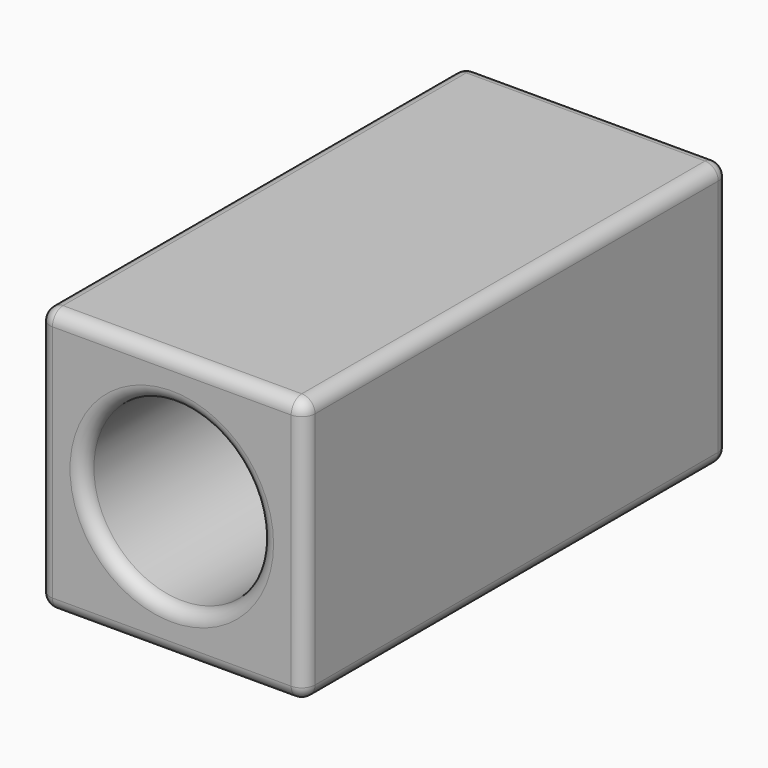
from build123d import *

# Parameters (mm, degrees)
F0_W     = 100
F0_H     = 100
F1_DEPTH = 200
F2_R     = 33.3715216042
F3_DEPTH = 273
F4_R     = 5


with BuildPart() as f1:
    # F0 (on Front) → F1 (new body)
    with BuildSketch(Plane.XZ):
        Rectangle(F0_W, F0_H)
    extrude(amount=F1_DEPTH)

    # F2 (on face) → F3 (cut)
    with BuildSketch(Plane.XZ.offset(200)):
        Circle(F2_R)
    extrude(amount=-F3_DEPTH, mode=Mode.SUBTRACT)

    # F4
    f4_edges = [f1.edges().sort_by_distance(p)[0] for p in [
        (50, -100, 50),
        (-50, -100, 50),
        (0, 0, 50),
        (0, -200, 50),
        (-50, -100, -50),
        (-50, 0, 0),
        (-50, -200, 0),
        (50, 0, 0),
        (0, 0, -50),
        (-33.371522, 0, 0),
        (50, -100, -50),
        (50, -200, 0),
        (0, -200, -50),
        (-33.371522, -200, 0),
    ]]
    fillet(f4_edges, radius=F4_R)


solid = f1.part
